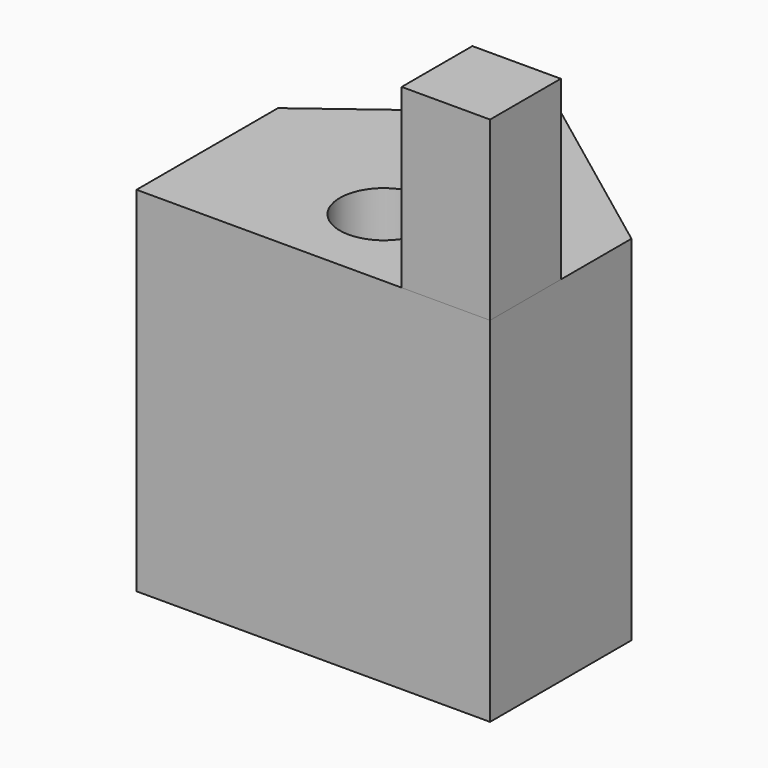
from build123d import *

# Parameters (mm, degrees)
F0_W     = 50.8
F0_H     = 25.4
F1_DEPTH = 50.8
F2_R     = 6.35
F3_DEPTH = 50.801
F4_W     = 12.7
F4_H     = 12.7
F5_DEPTH = 25.4


with BuildPart() as f1:
    # F0 (on Top) → F1 (new body)
    with BuildSketch(Plane.XY):
        with Locations((25.4, 12.7)):
            Rectangle(F0_W, F0_H)
        Polygon((25.4, 44.45), (0, 25.4), (50.8, 25.4), align=None)
    extrude(amount=F1_DEPTH)

    # F2 (on Top) → F3 (cut, through all)
    with BuildSketch(Plane.XY):
        with Locations((25.4, 12.7)):
            Circle(F2_R)
    extrude(amount=F3_DEPTH, mode=Mode.SUBTRACT)


with BuildPart() as f5:
    # F4 (on face) → F5 (new body)
    with BuildSketch(Plane.XY.offset(50.8)):
        with Locations((44.45, 6.35)):
            Rectangle(F4_W, F4_H)
    extrude(amount=F5_DEPTH)


solid = Compound([f1.part, f5.part])
